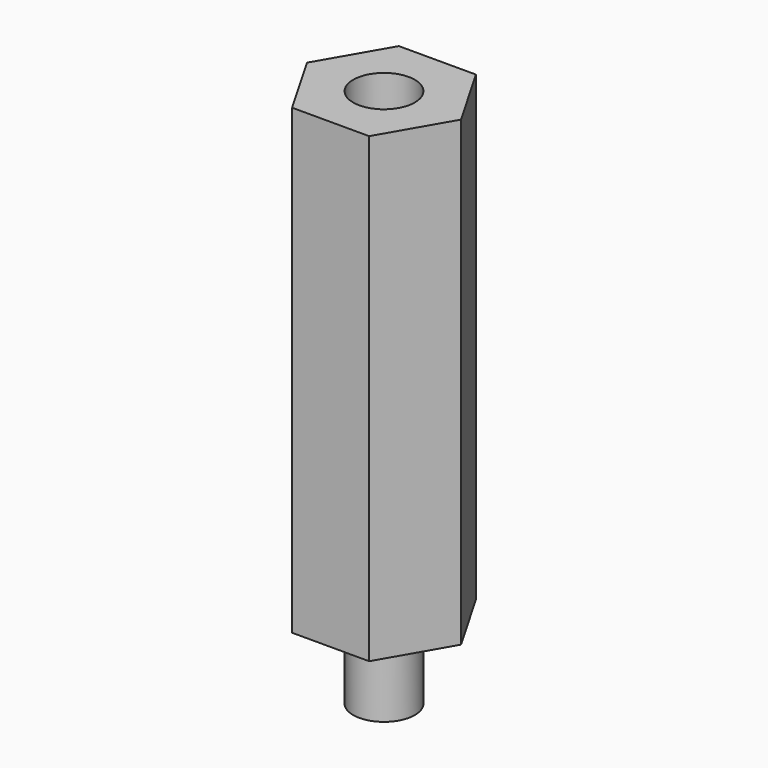
from build123d import *

# Parameters (mm, degrees)
EXTRUDE002_DEPTH = 30
SKETCH010_R      = 2
POCKET002_DEPTH  = 15
SKETCH011_R      = 2
EXTRUDE004_DEPTH = 5


with BuildPart() as pocket002:
    # Sketch008 → Extrude002 (new body)
    with BuildSketch(Plane.XY):
        Polygon((5, 0), (2.5, 4.330127), (-2.5, 4.330127), (-5, 0), (-2.5, -4.330127), (2.5, -4.330127), align=None)
    extrude(amount=EXTRUDE002_DEPTH)

    # Sketch010 → Pocket002 (cut)
    with BuildSketch(Plane.XY.offset(30)):
        Circle(SKETCH010_R)
    extrude(amount=-POCKET002_DEPTH, mode=Mode.SUBTRACT)


with BuildPart() as obj1:
    # Sketch011 → Extrude004 (new body)
    with BuildSketch(Plane(origin=(0, 0, 0), x_dir=(1, 0, 0), z_dir=(0, 0, -1))):
        Circle(SKETCH011_R)
    extrude(amount=EXTRUDE004_DEPTH)

    # Fusion: union Pocket002
    add(pocket002.part)


solid = obj1.part
